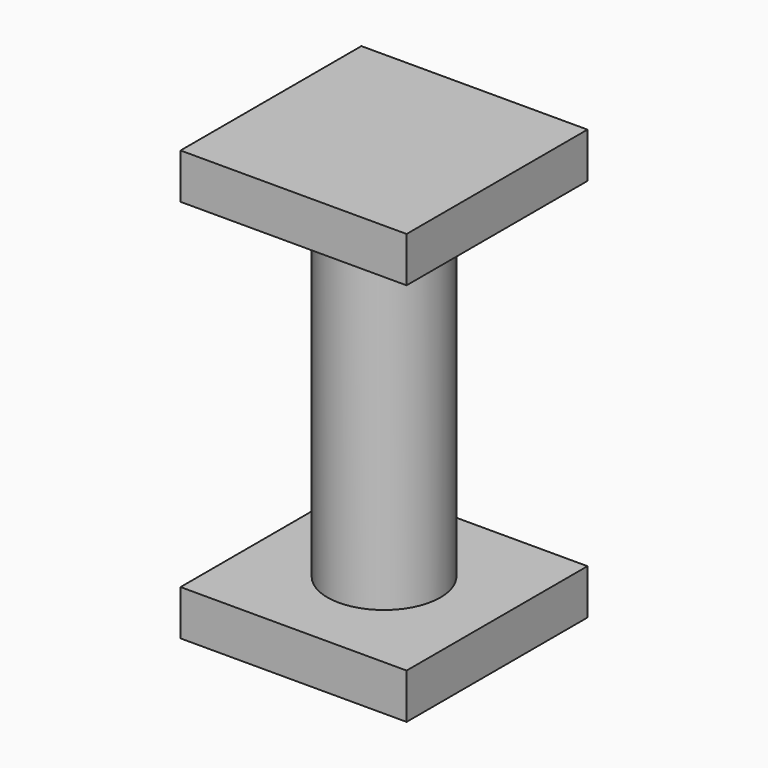
from build123d import *

# Parameters (mm, degrees)
F0_W     = 40
F0_H     = 8
F1_DEPTH = 20
F2_R     = 10
F3_DEPTH = 60


with BuildPart() as f1:
    # F0 (on Front) → F1 (new body, symmetric)
    with BuildSketch(Plane.XZ):
        Rectangle(F0_W, F0_H)
    extrude(amount=F1_DEPTH, both=True)


with BuildPart() as f1b:
    # F0 (on Front) → F1, piece 2 (new body, symmetric)
    with BuildSketch(Plane.XZ):
        with Locations((0, 68)):
            Rectangle(F0_W, F0_H)
    extrude(amount=F1_DEPTH, both=True)


with BuildPart() as f3:
    # F2 (on face) → F3 (new body, through all)
    with BuildSketch(Plane.XY.offset(4)):
        Circle(F2_R)
    extrude(amount=F3_DEPTH)


solid = Compound([f1.part, f1b.part, f3.part])
